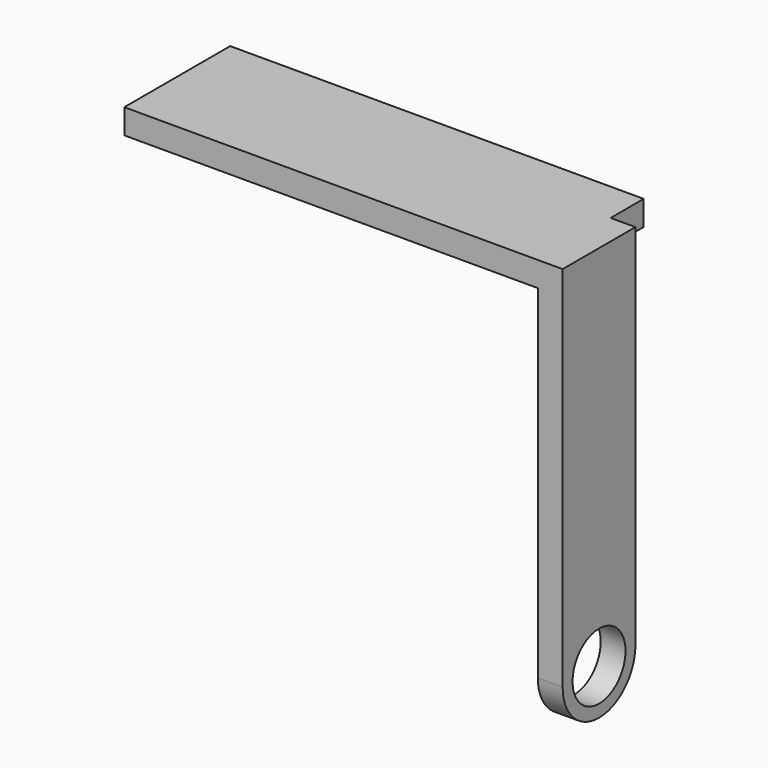
from build123d import *

# Parameters (mm, degrees)
SKETCH010_R     = 0.8
PAD005_DEPTH    = 0.6
SKETCH011_W     = 2.2
SKETCH011_H     = 0.6
PAD006_DEPTH    = 10
PAD006_FACE12_W = 10
PAD006_FACE12_H = 0.6
PAD007_DEPTH    = 1


with BuildPart() as part:
    # Sketch010 → Pad005 (new body)
    with BuildSketch(Plane.YZ):
        with BuildLine():
            Line((0, -8.9), (0, 0))
            Line((0, 0), (2.2, 0))
            Line((2.2, 0), (2.2, -8.9))
            ThreePointArc((0, -8.9), (1.1, -10), (2.2, -8.9))
        make_face()
        with Locations((1.1, -8.9)):
            Circle(SKETCH010_R, mode=Mode.SUBTRACT)
    extrude(amount=PAD005_DEPTH)

    # Sketch011 (on Face6 of Pad005) → Pad006 (join)
    with BuildSketch(Plane(origin=(0, 0, 0), x_dir=(0, 1, 0), z_dir=(-1, 0, 0))):
        with Locations((1.1, 0.3)):
            Rectangle(SKETCH011_W, SKETCH011_H)
    extrude(amount=PAD006_DEPTH)

    # Pad006 Face12 → Pad007 (add)
    with BuildSketch(Plane(origin=(-5, 2.2, -0.3), x_dir=(1, 0, 0), z_dir=(0, 1, 0))):
        Rectangle(PAD006_FACE12_W, PAD006_FACE12_H)
    extrude(amount=PAD007_DEPTH)


with BuildPart() as part_1:
    # Body004 placement: moved
    add(part.part.moved(Location((10, 12.3, 5.5))))


solid = part_1.part
